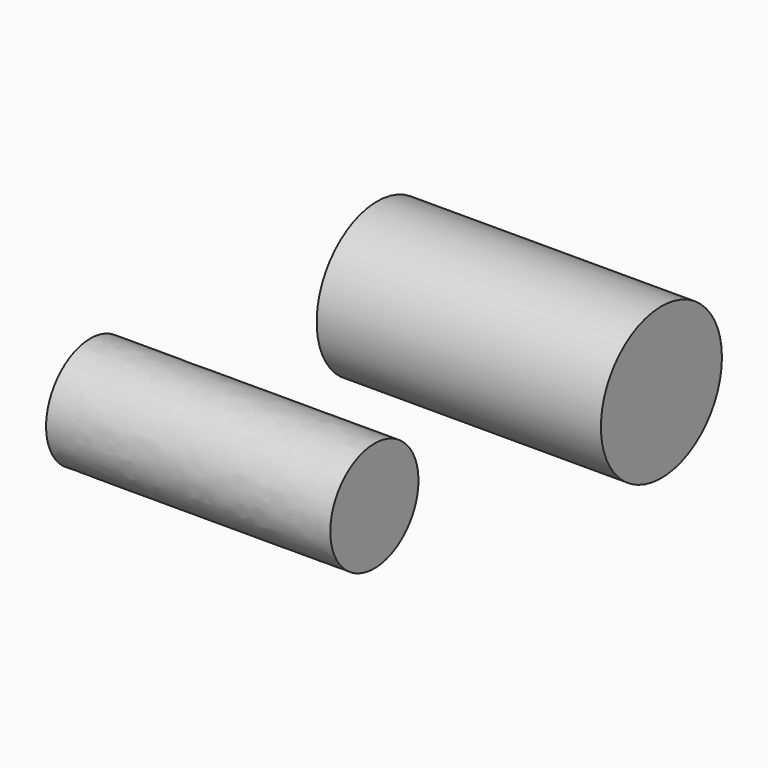
from build123d import *

# Parameters (mm, degrees)
F0_R     = 20.279379
F1_DEPTH = 76.2
F3_DEPTH = 76.2


with BuildPart() as f1:
    # F0 (on Right) → F1 (new body)
    with BuildSketch(Plane.YZ):
        with Locations((40.804874, 28.422499)):
            Circle(F0_R)
    extrude(amount=F1_DEPTH)


with BuildPart() as f3:
    # F2 (on Right) → F3 (new body)
    with BuildSketch(Plane.YZ):
        with BuildLine():
            add(Edge.make_bspline(
                [(-49.259346, 27.25295), (-25.97555, 37.882507), (-46.798923, 52.679535), (-67.622297, 67.476563), (-70.082719, 42.049978), (-72.543142, 16.623393), (-49.259346, 27.25295)],
                knots=[4.712389, 4.712389, 4.712389, 6.806784, 6.806784, 8.901179, 8.901179, 10.995574, 10.995574, 10.995574], degree=2, weights=[1, 0.5, 1, 0.5, 1, 0.5, 1]))
        make_face()
    extrude(amount=F3_DEPTH)


solid = Compound([f1.part, f3.part])
